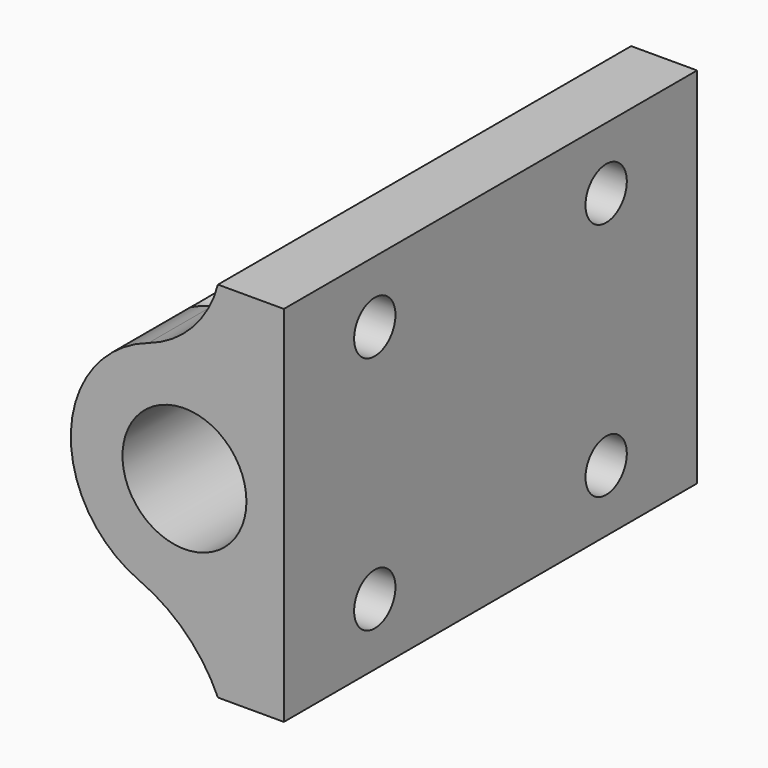
from build123d import *

# Parameters (mm, degrees)
F0_R     = 6
F1_DEPTH = 50
F2_R     = 2.5
F3_DEPTH = 25
F5_R     = 3.423218
F6_DEPTH = 25


with BuildPart() as f1:
    # F0 (on Front) → F1 (new body)
    with BuildSketch(Plane.XZ):
        with BuildLine():
            Line((0, 0), (0, 35.195496))
            Line((0, 35.195496), (-6.381311, 35.195496))
            ThreePointArc((-6.381311, 35.195496), (-8.840759, 30.764286), (-13.108497, 28.030987))
            ThreePointArc((-13.108497, 28.030987), (-20.613351, 18.062411), (-13.976716, 7.495935))
            ThreePointArc((-13.976716, 7.495935), (-9.473946, 4.46239), (-6.381311, 0))
            Line((-6.381311, 0), (0, 0))
        make_face()
        with Locations((-9.623169, 17.597748)):
            Circle(F0_R, mode=Mode.SUBTRACT)
    extrude(amount=F1_DEPTH)

    # F2 (on face) → F3 (cut)
    with BuildSketch(Plane.YZ):
        with Locations((-39, 29.195496)):
            Circle(F2_R)
        with Locations((-11, 29.195496)):
            Circle(F2_R)
        with Locations((-39, 6)):
            Circle(F2_R)
        with Locations((-11, 6)):
            Circle(F2_R)
    extrude(amount=-F3_DEPTH, mode=Mode.SUBTRACT)

    # F5 (on offset) → F6 (cut)
    with BuildSketch(Plane.YZ.offset(-6.5)):
        with Locations((-11, 6)):
            Circle(F5_R)
        with Locations((-39, 6)):
            Circle(F5_R)
        with Locations((-11, 29.195496)):
            Circle(F5_R)
        with Locations((-39, 29.195496)):
            Circle(F5_R)
    extrude(amount=-F6_DEPTH, mode=Mode.SUBTRACT)


solid = f1.part
